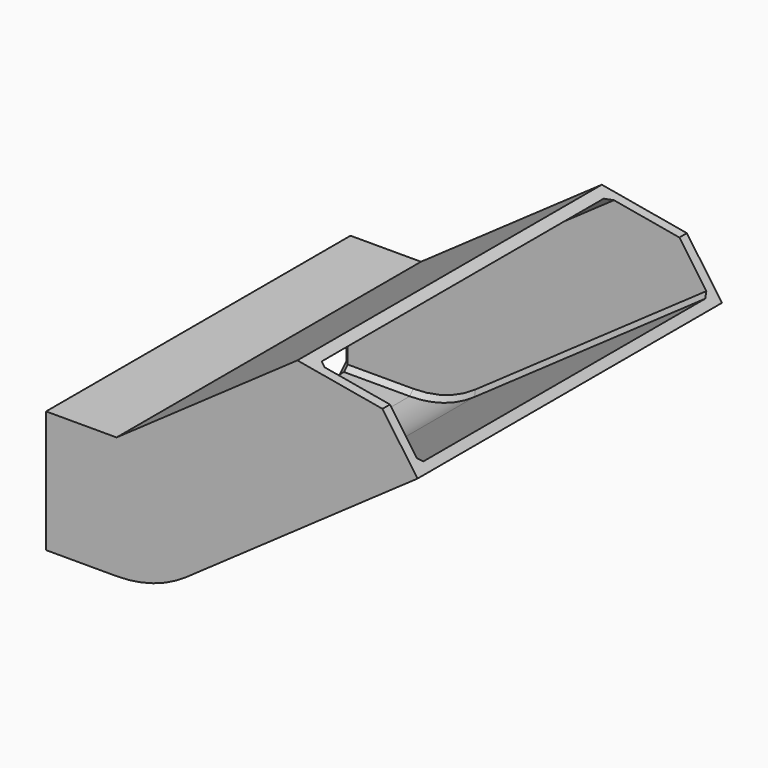
from build123d import *

# Parameters (mm, degrees)
SKETCH019_W             = 81
SKETCH019_H             = 26
SKETCH019_W_2           = 77
SKETCH019_H_2           = 22
REVOLUTION_ANGLE        = 35
SKETCH020_W             = 81
SKETCH020_H             = 26
SKETCH020_W_2           = 77
SKETCH020_H_2           = 22
PAD010_DEPTH            = 60
POCKET006_DEPTH         = 81.001
SKETCH022_W             = 81
SKETCH022_H             = 26
SKETCH022_W_2           = 77
SKETCH022_H_2           = 22
PAD011_DEPTH            = 15
CHAMFER002_SIZE         = 1
BODY005_PLACEMENT_ANGLE = 180


with BuildPart() as part:
    # Sketch019 → Revolution (revolve)
    with BuildSketch(Plane(origin=(310, 157, 2), x_dir=(0, 1, 0), z_dir=(1, 0, 0))):
        with Locations((40.5, 13)):
            Rectangle(SKETCH019_W, SKETCH019_H)
        with Locations((40.5, 13)):
            Rectangle(SKETCH019_W_2, SKETCH019_H_2, mode=Mode.SUBTRACT)
    revolve(axis=Axis((310, 157, 2), (0, 1, 0)), revolution_arc=REVOLUTION_ANGLE)

    # Sketch020 (on Face9 of Revolution) → Pad010 (new body)
    with BuildSketch(Plane(origin=(207.07343, 0, -144.994376), x_dir=(0, 1, 0), z_dir=(0.819152, 0, -0.573576))):
        with Locations((197.5, 192.446999)):
            Rectangle(SKETCH020_W, SKETCH020_H)
        with Locations((197.5, 192.446999)):
            Rectangle(SKETCH020_W_2, SKETCH020_H_2, mode=Mode.SUBTRACT)
    extrude(amount=PAD010_DEPTH)

    # Sketch021 (on Face11 of Pad010) → Pocket006 (cut, through all)
    with BuildSketch(Plane(origin=(0, 157, 0), x_dir=(0, 0, -1), z_dir=(0, -1, 0))):
        Polygon((21.76561, 366.605616), (32.414586, 359.149123), (24.958093, 348.500146), align=None)
    extrude(amount=-POCKET006_DEPTH, mode=Mode.SUBTRACT)

    # Sketch022 (on Face4 of Pocket006) → Pad011 (join)
    with BuildSketch(Plane(origin=(310, 0, 0), x_dir=(0, 1, 0), z_dir=(-1, 0, 0))):
        with Locations((197.5, -15)):
            Rectangle(SKETCH022_W, SKETCH022_H)
        with Locations((197.5, -15)):
            Rectangle(SKETCH022_W_2, SKETCH022_H_2, mode=Mode.SUBTRACT)
    extrude(amount=PAD011_DEPTH)

    # Chamfer002
    chamfer002_edges = [part.edges().sort_by_distance(p)[0] for p in [
        (302.5, 159, 4),
        (295, 197.5, 4),
        (295, 159, 15),
        (302.5, 159, 26),
        (295, 197.5, 26),
        (295, 236, 15),
        (302.5, 236, 26),
        (317.216939, 236, 24.889207),
        (317.216939, 159, 24.889207),
        (310.601412, 159, 3.907434),
        (331.216378, 159, -10.414319),
        (310.601412, 236, 3.907434),
        (331.216378, 236, -10.414319),
        (348.340396, 236, 4.452356),
        (348.340396, 159, 4.452356),
    ]]
    chamfer(chamfer002_edges, length=CHAMFER002_SIZE)


with BuildPart() as part_1:
    # Body005 placement: moved
    add(part.part.moved(Location((0, 395, 30))).rotate(Axis((0, 395, 30), (1, 0, 0)), BODY005_PLACEMENT_ANGLE))


solid = part_1.part
